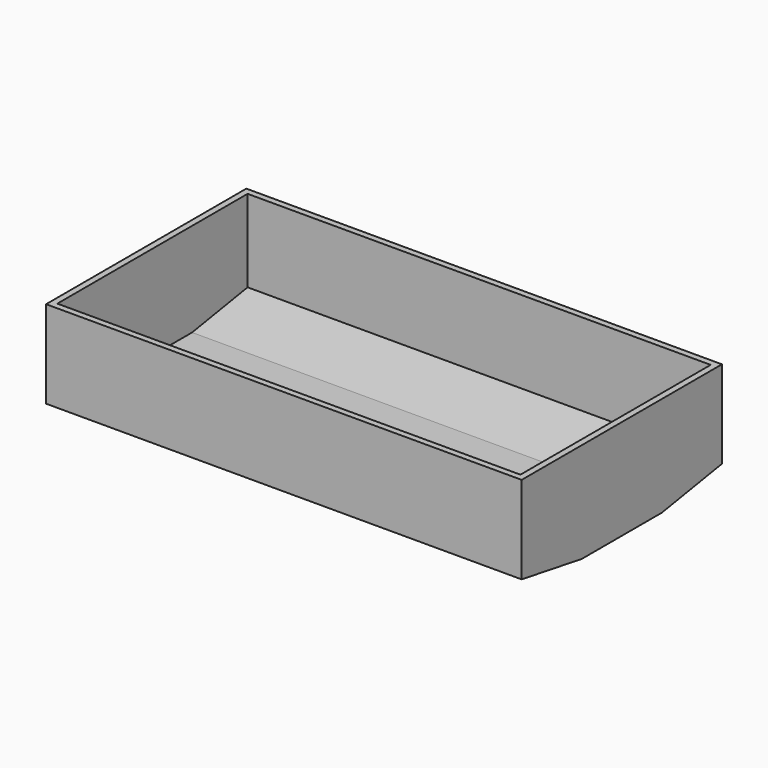
from build123d import *

# Parameters (mm, degrees)
F0_W     = 190
F0_H     = 100
F1_DEPTH = 40
F2_SIZE2 = 30
F2_SIZE  = 5
F3_T     = -2.5


with BuildPart() as f1:
    # F0 (on Top) → F1 (new body)
    with BuildSketch(Plane.XY):
        Rectangle(F0_W, F0_H)
    extrude(amount=-F1_DEPTH)

    # F2
    f2_edges = [f1.edges().sort_by_distance(p)[0] for p in [
        (0, 50, -40),
        (0, -50, -40),
    ]]
    chamfer(f2_edges, length=F2_SIZE, length2=F2_SIZE2)

    # F3
    f3_openings = [f1.faces().sort_by_distance(p)[0] for p in [
        (0, 0, 0),
    ]]
    offset(amount=F3_T, openings=f3_openings)


solid = f1.part
